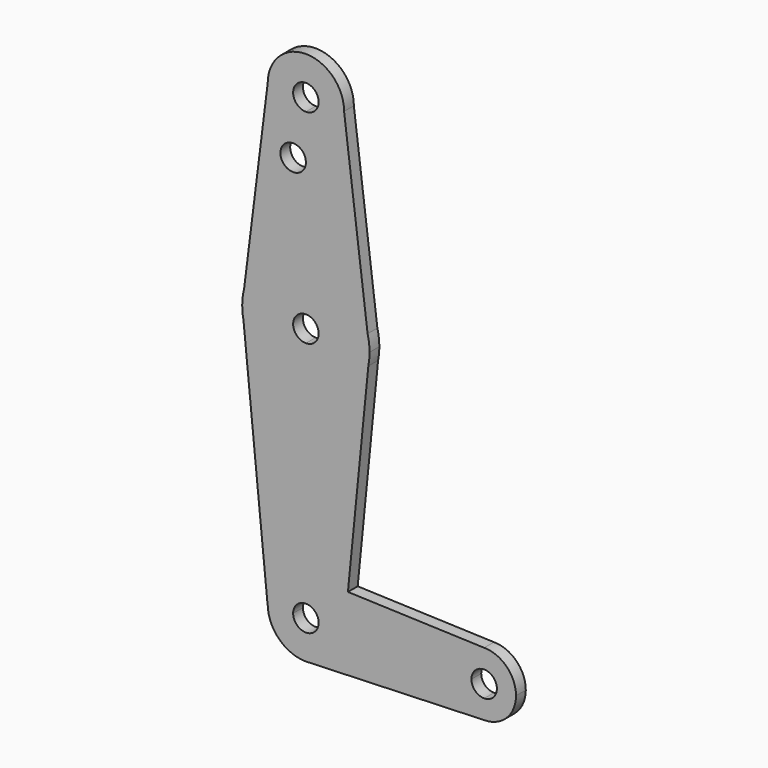
from build123d import *

# Parameters (mm, degrees)
F0_R     = 3.175
F1_DEPTH = 3.048


with BuildPart() as f1:
    # F0 (on Front) → F1 (new body)
    with BuildSketch(Plane.XZ):
        with BuildLine():
            ThreePointArc((-9.525, 114.3), (-6.7351920908, 107.5648079092), (0, 104.775))
            ThreePointArc((0, 104.775), (6.7351920908, 107.5648079092), (9.525, 114.3))
            ThreePointArc((9.525, 114.3), (0, 123.825), (-9.525, 114.3))
        make_face()
        with BuildLine():
            ThreePointArc((3.175, 114.3), (2.2450640303, 112.0549359697), (0, 111.125))
            ThreePointArc((0, 111.125), (-2.2450640303, 116.5450640303), (3.175, 114.3))
        make_face(mode=Mode.SUBTRACT)
        with BuildLine():
            ThreePointArc((9.525, 114.3), (6.7351920908, 107.5648079092), (0, 104.775))
            Line((0, 104.775), (0, 100.0252))
            Line((0, 100.0252), (0, 79.375))
            ThreePointArc((0, 79.375), (9.7463072395, 76.0309664508), (15.3865384615, 67.4076923077))
            Line((15.3865384615, 67.4076923077), (9.525, 114.3))
        make_face()
        with BuildLine():
            Line((0, 100.0252), (0, 104.775))
            ThreePointArc((0, 104.775), (-6.7351920908, 107.5648079092), (-9.525, 114.3))
            Line((-9.525, 114.3), (-15.3865384615, 67.4076923077))
            ThreePointArc((-15.3865384615, 67.4076923077), (-9.7463072395, 76.0309664508), (0, 79.375))
            Line((0, 79.375), (0, 100.0252))
        make_face()
        with Locations((-3.175, 100.0252)):
            Circle(F0_R, mode=Mode.SUBTRACT)
        with BuildLine():
            ThreePointArc((15.3865384615, 67.4076923077), (9.7463072395, 76.0309664508), (0, 79.375))
            Line((0, 79.375), (0, 66.675))
            ThreePointArc((0, 66.675), (2.2450640303, 65.7450640303), (3.175, 63.5))
            ThreePointArc((3.175, 63.5), (2.2450640303, 61.2549359697), (0, 60.325))
            Line((0, 60.325), (0, 47.625))
            ThreePointArc((0, 47.625), (10.0616155323, 51.22076884), (15.5652161214, 60.3791552277))
            Line((15.5652161214, 60.3791552277), (15.875, 63.5))
            Line((15.875, 63.5), (15.3865384615, 67.4076923077))
        make_face()
        with BuildLine():
            Line((0, 66.675), (0, 79.375))
            ThreePointArc((0, 79.375), (-9.7463072395, 76.0309664508), (-15.3865384615, 67.4076923077))
            Line((-15.3865384615, 67.4076923077), (-15.875, 63.5))
            Line((-15.875, 63.5), (-15.5652161214, 60.3791552277))
            ThreePointArc((-15.5652161214, 60.3791552277), (-10.0616155323, 51.22076884), (0, 47.625))
            Line((0, 47.625), (0, 60.325))
            ThreePointArc((0, 60.325), (-3.175, 63.5), (0, 66.675))
        make_face()
        with BuildLine():
            Line((-15.875, 63.5), (-15.3865384615, 67.4076923077))
            ThreePointArc((-15.3865384615, 67.4076923077), (-15.7524112928, 65.4690514116), (-15.875, 63.5))
        make_face()
        with BuildLine():
            ThreePointArc((15.875, 63.5), (15.7524112928, 65.4690514116), (15.3865384615, 67.4076923077))
            Line((15.3865384615, 67.4076923077), (15.875, 63.5))
        make_face()
        with BuildLine():
            Line((-15.5652161214, 60.3791552277), (-15.875, 63.5))
            ThreePointArc((-15.875, 63.5), (-15.7973641936, 61.9319089516), (-15.5652161214, 60.3791552277))
        make_face()
        with BuildLine():
            ThreePointArc((15.5652161214, 60.3791552277), (15.7973641936, 61.9319089516), (15.875, 63.5))
            Line((15.875, 63.5), (15.5652161214, 60.3791552277))
        make_face()
        with BuildLine():
            ThreePointArc((0, 47.625), (-10.0616155323, 51.22076884), (-15.5652161214, 60.3791552277))
            Line((-15.5652161214, 60.3791552277), (-9.5718104076, 0))
            Line((-9.5718104076, 0), (-9.525, 0))
            ThreePointArc((-9.525, 0), (-6.7351920908, 6.7351920908), (0, 9.525))
            Line((0, 9.525), (0, 47.625))
        make_face()
        with BuildLine():
            Line((10.4801357068, 9.150709439), (15.5652161214, 60.3791552277))
            ThreePointArc((15.5652161214, 60.3791552277), (10.0616155323, 51.22076884), (0, 47.625))
            Line((0, 47.625), (0, 9.525))
            ThreePointArc((0, 9.525), (0.3399618281, 9.5189311877), (0.6794904459, 9.5007324841))
            Line((0.6794904459, 9.5007324841), (10.4801357068, 9.150709439))
        make_face()
        with BuildLine():
            Line((44.45, 7.9375), (10.4801357068, 9.150709439))
            Line((10.4801357068, 9.150709439), (9.5718104076, 0))
            Line((9.5718104076, 0), (36.5125, 0))
            ThreePointArc((36.5125, 0), (38.8373399243, 5.6126600757), (44.45, 7.9375))
        make_face()
        with BuildLine():
            Line((9.5718104076, 0), (10.4801357068, 9.150709439))
            Line((10.4801357068, 9.150709439), (0.6794904459, 9.5007324841))
            ThreePointArc((0.6794904459, 9.5007324841), (6.9712901065, 6.4905114784), (9.525, 0))
            Line((9.525, 0), (9.5718104076, 0))
        make_face()
        with BuildLine():
            Line((0, 3.175), (0, 9.525))
            ThreePointArc((0, 9.525), (-6.7351920908, 6.7351920908), (-9.525, 0))
            Line((-9.525, 0), (-3.175, 0))
            ThreePointArc((-3.175, 0), (-2.2450640303, 2.2450640303), (0, 3.175))
        make_face()
        with BuildLine():
            Line((-3.175, 0), (-9.525, 0))
            ThreePointArc((-9.525, 0), (-6.7351920908, -6.7351920908), (0, -9.525))
            Line((0, -9.525), (0.6773435479, -9.500885786))
            ThreePointArc((0.6773435479, -9.500885786), (6.9705567315, -6.4912990883), (9.525, 0))
            Line((9.525, 0), (3.175, 0))
            ThreePointArc((3.175, 0), (0, -3.175), (-3.175, 0))
        make_face()
        with BuildLine():
            Line((36.5125, 0), (9.5718104076, 0))
            Line((9.5718104076, 0), (9.525, 0))
            ThreePointArc((9.525, 0), (6.9705567315, -6.4912990883), (0.6773435479, -9.500885786))
            Line((0.6773435479, -9.500885786), (44.45, -7.9425285691))
            Line((44.45, -7.9425285691), (44.45, -7.9375))
            ThreePointArc((44.45, -7.9375), (38.8373399243, -5.6126600757), (36.5125, 0))
        make_face()
        with BuildLine():
            Line((44.45, 3.175), (44.45, 7.9375))
            ThreePointArc((44.45, 7.9375), (38.8373399243, 5.6126600757), (36.5125, 0))
            Line((36.5125, 0), (41.275, 0))
            ThreePointArc((41.275, 0), (42.2049359697, 2.2450640303), (44.45, 3.175))
        make_face()
        with BuildLine():
            ThreePointArc((52.3875, 0), (50.0626600757, 5.6126600757), (44.45, 7.9375))
            Line((44.45, 7.9375), (44.45, 3.175))
            ThreePointArc((44.45, 3.175), (46.6950640303, 2.2450640303), (47.625, 0))
            ThreePointArc((47.625, 0), (46.6950640303, -2.2450640303), (44.45, -3.175))
            Line((44.45, -3.175), (44.45, -7.9375))
            ThreePointArc((44.45, -7.9375), (50.0626600757, -5.6126600757), (52.3875, 0))
        make_face()
        with BuildLine():
            Line((0.6773435479, -9.500885786), (0, -9.525))
            ThreePointArc((0, -9.525), (0.3388863295, -9.5189695375), (0.6773435479, -9.500885786))
        make_face()
        with BuildLine():
            Line((41.275, 0), (36.5125, 0))
            ThreePointArc((36.5125, 0), (38.8373399243, -5.6126600757), (44.45, -7.9375))
            Line((44.45, -7.9375), (44.45, -3.175))
            ThreePointArc((44.45, -3.175), (42.2049359697, -2.2450640303), (41.275, 0))
        make_face()
        with BuildLine():
            Line((0.6794904459, 9.5007324841), (0, 9.525))
            Line((0, 9.525), (0, 3.175))
            ThreePointArc((0, 3.175), (2.2450640303, 2.2450640303), (3.175, 0))
            Line((3.175, 0), (9.525, 0))
            ThreePointArc((9.525, 0), (6.9712901065, 6.4905114784), (0.6794904459, 9.5007324841))
        make_face()
    extrude(amount=F1_DEPTH)


solid = f1.part
